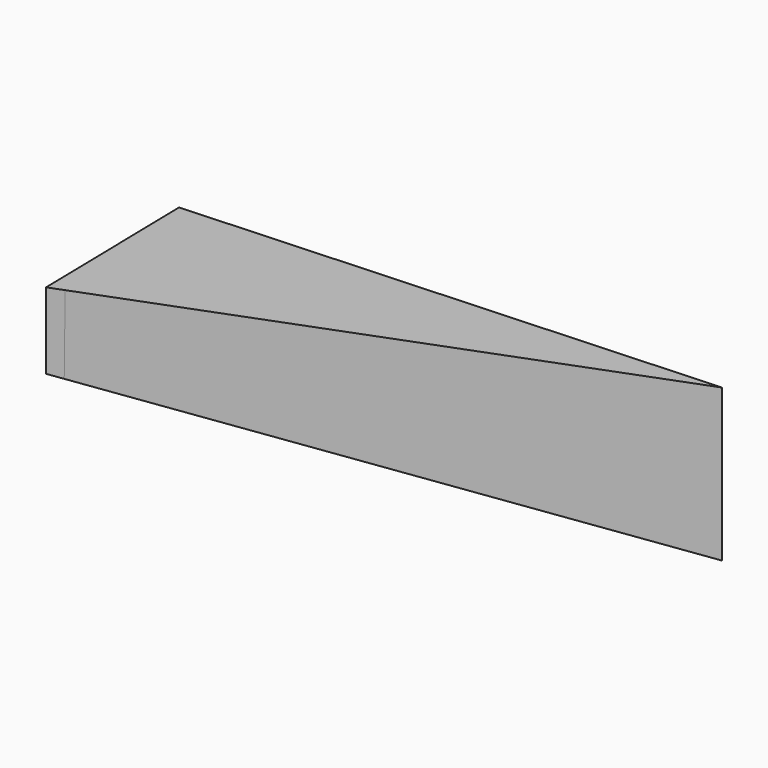
from build123d import *

# Parameters (mm, degrees)
F0_W     = 209.55
F0_H     = 52.3875
F1_DEPTH = 57.15
F3_DEPTH = 76.2
F5_DEPTH = 76.2
F7_DEPTH = 72.644
F9_DEPTH = 19.304


with BuildPart() as f1:
    # F0 (on Front) → F1 (new body)
    with BuildSketch(Plane.XZ):
        with Locations((104.775, 26.19375)):
            Rectangle(F0_W, F0_H)
    extrude(amount=F1_DEPTH)

    # F2 (on face) → F3 (cut)
    with BuildSketch(Plane.XY.offset(52.3875)):
        Polygon((209.55, -57.15), (209.55, -28.575), (0, -57.15), align=None)
    extrude(amount=-F3_DEPTH, mode=Mode.SUBTRACT)

    # F4 (on face) → F5 (cut)
    with BuildSketch(Plane.XY.offset(52.3875)):
        Polygon((0, 0), (209.55, -28.575), (209.55, 0), align=None)
    extrude(amount=-F5_DEPTH, mode=Mode.SUBTRACT)

    # F6 (on face) → F7 (cut)
    with BuildSketch(Plane(origin=(7.650913, -56.106694, 0), x_dir=(0.99083, 0.135113, 0), z_dir=(0.135113, -0.99083, 0))):
        Polygon((-7.72172, 26.19375), (203.767602, 52.3875), (-7.72172, 52.3875), align=None)
    extrude(amount=-F7_DEPTH, mode=Mode.SUBTRACT)

    # F8 (on face) → F9 (cut)
    with BuildSketch(Plane(origin=(7.650913, -56.106694, 0), x_dir=(0.99083, 0.135113, 0), z_dir=(0.135113, -0.99083, 0))):
        Polygon((203.767602, 52.3875), (-7.72172, 26.19375), (-7.72172, 0), (203.767602, 0), align=None)
        Polygon((-7.72172, 0), (-7.72172, 26.19375), (-25.226625, 0), align=None)
    extrude(amount=F9_DEPTH, mode=Mode.SUBTRACT)


solid = f1.part
